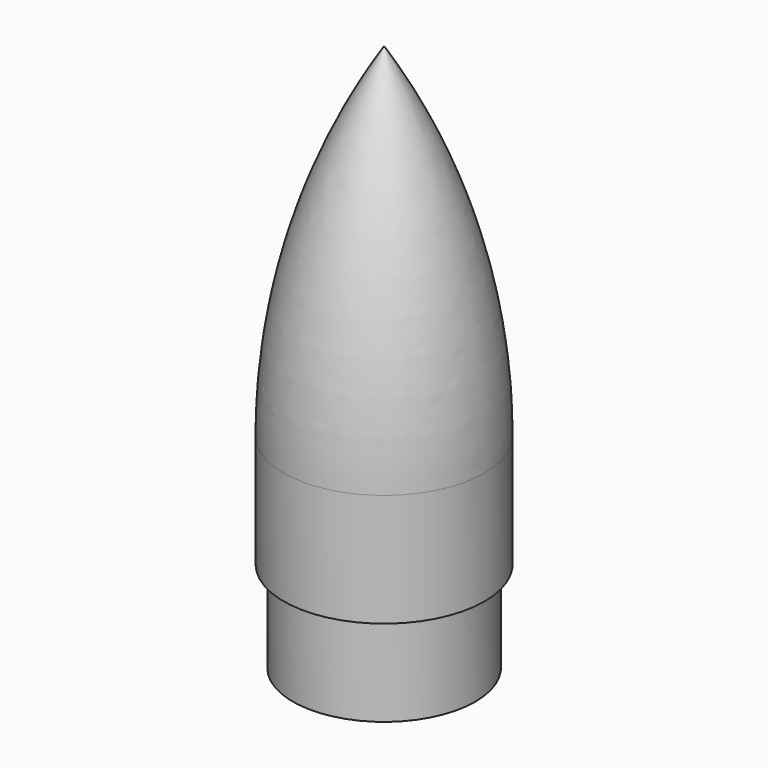
from build123d import *


with BuildPart() as f1:
    # F0 (on Front) → F1 (revolve)
    with BuildSketch(Plane.XZ):
        with BuildLine():
            Line((13.97, 12.7), (13.97, 28.414285))
            ThreePointArc((13.97, 28.414285), (10.405905, 53.307233), (0, 76.2))
            Line((0, 76.2), (0, 0))
            Line((0, 0), (12.7, 0))
            Line((12.7, 0), (12.7, 12.7))
            Line((12.7, 12.7), (13.97, 12.7))
        make_face()
    revolve(axis=Axis((0, 0, -25.352545), (0, 0, -1)))


solid = f1.part
